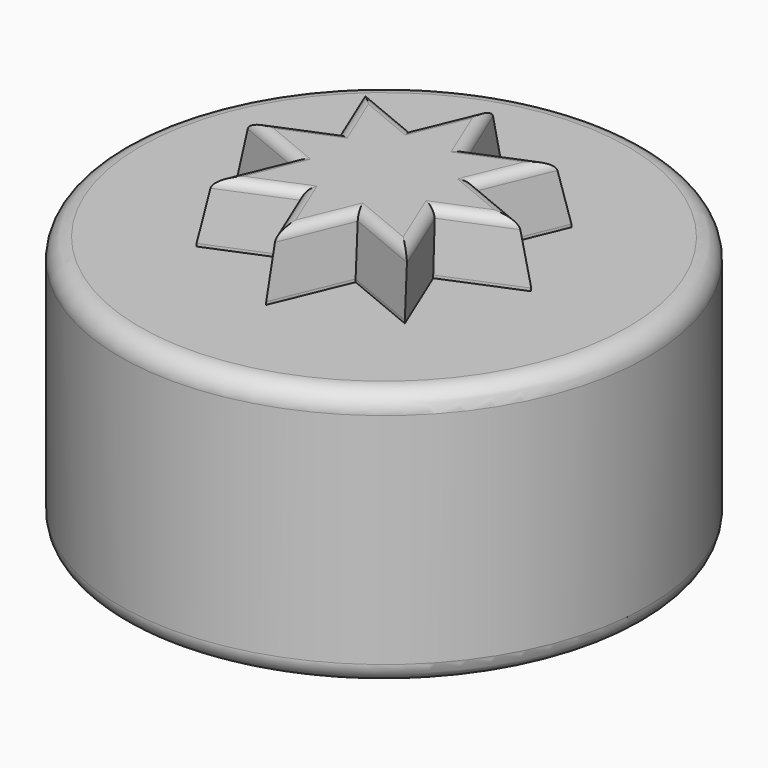
from build123d import *

# Parameters (mm, degrees)
F0_R     = 26.5
F0_R_2   = 3.1
F1_DEPTH = 20
F2_R     = 26.5
F3_DEPTH = 6
F4_R     = 2
F6_DEPTH = 6
F7_SIZE2 = 5.7150261514
F7_SIZE  = 0.5
F8_SIZE2 = 5.7150261514
F8_SIZE  = 0.5
F9_R     = 1


with BuildPart() as f1:
    # F0 (on Top) → F1 (new body)
    with BuildSketch(Plane.XY):
        Circle(F0_R)
        with Locations((-19.7989898732, 0.6299423149)):
            Circle(F0_R_2, mode=Mode.SUBTRACT)
        with Locations((19.7989898732, 0.6299423149)):
            Circle(F0_R_2, mode=Mode.SUBTRACT)
    extrude(amount=F1_DEPTH)

    # F2 (on face) → F3 (join)
    with BuildSketch(Plane.XY.offset(20)):
        Circle(F2_R)
    extrude(amount=F3_DEPTH)

    # F4
    f4_edges = [f1.edges().sort_by_distance(p)[0] for p in [
        (-26.5, 0, 26),
        (-26.5, 0, 0),
    ]]
    fillet(f4_edges, radius=F4_R)

    # F5 (on face) → F6 (join)
    with BuildSketch(Plane.XY.offset(26)):
        Polygon((0, 14.7820725202), (-3.0614674589, 7.3910362601), (-10.452503719, 10.452503719), (-7.3910362601, 3.0614674589), (-14.7820725202, 0), (-7.3910362601, -3.0614674589), (-10.452503719, -10.452503719), (-3.0614674589, -7.3910362601), (0, -14.7820725202), (3.0614674589, -7.3910362601), (10.452503719, -10.452503719), (7.3910362601, -3.0614674589), (14.7820725202, 0), (7.3910362601, 3.0614674589), (10.452503719, 10.452503719), (3.0614674589, 7.3910362601), align=None)
    extrude(amount=F6_DEPTH)

    # F7
    f7_edges = [f1.edges().sort_by_distance(p)[0] for p in [
        (6.756986, -8.92177, 32),
        (-1.530734, -11.086554, 32),
        (-8.92177, -6.756986, 32),
        (-11.086554, 1.530734, 32),
        (-6.756986, 8.92177, 32),
        (1.530734, 11.086554, 32),
        (8.92177, 6.756986, 32),
        (11.086554, -1.530734, 32),
    ]]
    f7_side = f1.faces().sort_by_distance((0, 0, 32))[0]
    chamfer(f7_edges, length=F7_SIZE, length2=F7_SIZE2, reference=f7_side)

    # F8
    f8_edges = [f1.edges().sort_by_distance(p)[0] for p in [
        (1.666033, -10.759914, 32),
        (-6.430345, -8.786471, 32),
        (-10.759914, -1.666033, 32),
        (-8.786471, 6.430345, 32),
        (-1.666033, 10.759914, 32),
        (6.430345, 8.786471, 32),
        (10.759914, 1.666033, 32),
    ]]
    f8_side = f1.faces().sort_by_distance((0, 0, 32))[0]
    chamfer(f8_edges, length=F8_SIZE, length2=F8_SIZE2, reference=f8_side)

    # F9
    f9_edges = [f1.edges().sort_by_distance(p)[0] for p in [
        (10.337602, -1.299764, 32),
        (10.337602, 1.299764, 32),
        (7.295365, -2.830498, 32),
        (6.968725, 2.695199, 32),
        (8.786471, -6.430345, 32),
        (6.833426, 3.021839, 32),
        (6.717357, -8.364159, 32),
        (8.22886, 6.390717, 32),
        (3.021839, -6.833426, 32),
        (6.390717, 8.22886, 32),
        (2.695199, -6.968725, 32),
        (3.021839, 6.833426, 32),
        (1.299764, -10.337602, 32),
        (2.695199, 6.968725, 32),
        (-1.299764, -10.337602, 32),
        (1.299764, 10.337602, 32),
        (-2.695199, -6.968725, 32),
        (-1.299764, 10.337602, 32),
        (-3.021839, -6.833426, 32),
        (-2.695199, 6.968725, 32),
        (-6.390717, -8.22886, 32),
        (-3.021839, 6.833426, 32),
        (-8.22886, -6.390717, 32),
        (-6.390717, 8.22886, 32),
        (-6.833426, -3.021839, 32),
        (-8.22886, 6.390717, 32),
        (-6.968725, -2.695199, 32),
        (-6.833426, 3.021839, 32),
        (-10.337602, -1.299764, 32),
        (-6.968725, 2.695199, 32),
        (-10.337602, 1.299764, 32),
    ]]
    fillet(f9_edges, radius=F9_R)


solid = f1.part
